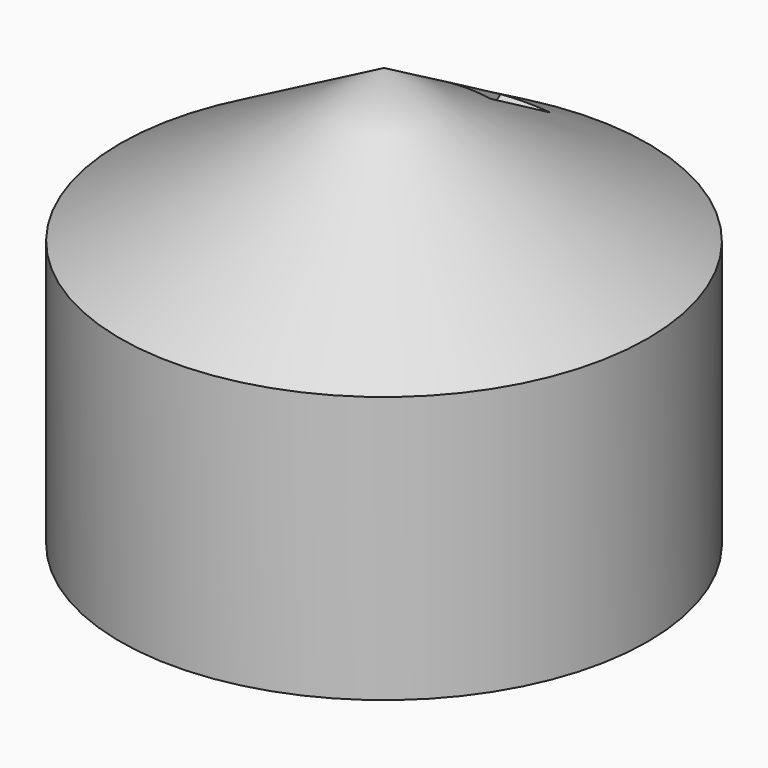
from build123d import *

# Parameters (mm, degrees)
F2_W     = 400
F2_H     = 600
F5_DEPTH = 30000
F3_R     = 27.85
F6_DEPTH = 500
F7_R     = 27.85
F8_DEPTH = 2136.001


with BuildPart() as f4:
    # F0 (on Front) → F4 (revolve)
    with BuildSketch(Plane.XZ):
        Polygon((0, 300), (0, 0), (2136, 0), (2136, 2160), (0, 3393.220175), (0, 3286.987725), (1986, 2140.370091), (1986, 300), align=None)
    revolve(axis=Axis((0, 0, 150), (0, 0, -1)))

    # F2 (on face) → F5 (cut)
    with BuildSketch(Plane(origin=(0, 0, 0), x_dir=(-1, 0, 0), z_dir=(0, 0.866025, 0.5))):
        with Locations((0, 1800)):
            Rectangle(F2_W, F2_H)
    extrude(amount=F5_DEPTH, mode=Mode.SUBTRACT)

    # F3 (on Top) → F6 (cut)
    with BuildSketch(Plane.XY):
        with Locations((125, -1710)):
            Circle(F3_R)
        with Locations((0, -1710)):
            Circle(F3_R)
        with Locations((-125, -1710)):
            Circle(F3_R)
        with Locations((-250, -1710)):
            Circle(F3_R)
        with Locations((250, -1710)):
            Circle(F3_R)
    extrude(amount=F6_DEPTH, mode=Mode.SUBTRACT)

    # F7 (on Front) → F8 (cut, through all)
    with BuildSketch(Plane.XZ):
        with Locations((0, 2052)):
            Circle(F7_R)
    extrude(amount=-F8_DEPTH, mode=Mode.SUBTRACT)


solid = f4.part
